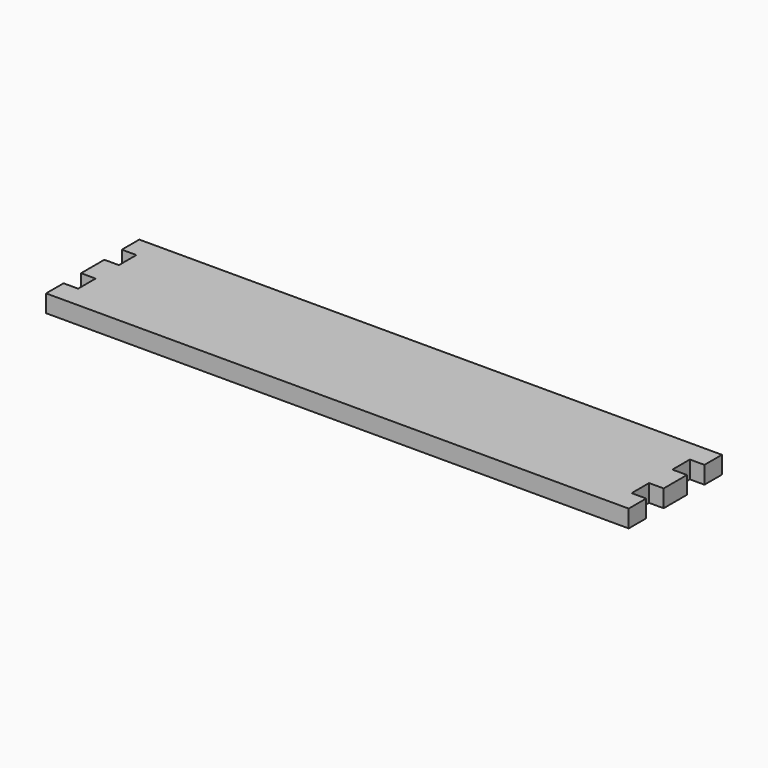
from build123d import *

# Parameters (mm, degrees)
F1_DEPTH = 6


with BuildPart() as f1:
    # F0 (on Top) → F1 (new body, symmetric)
    with BuildSketch(Plane.XY):
        Polygon((200, 25), (200, 40), (-200, 40), (-200, 25), (-190, 25), (-190, 10), (-200, 10), (-200, -10), (-190, -10), (-190, -25), (-200, -25), (-200, -40), (200, -40), (200, -25), (190, -25), (190, -10), (200, -10), (200, 10), (190, 10), (190, 25), align=None)
    extrude(amount=F1_DEPTH, both=True)


solid = f1.part
